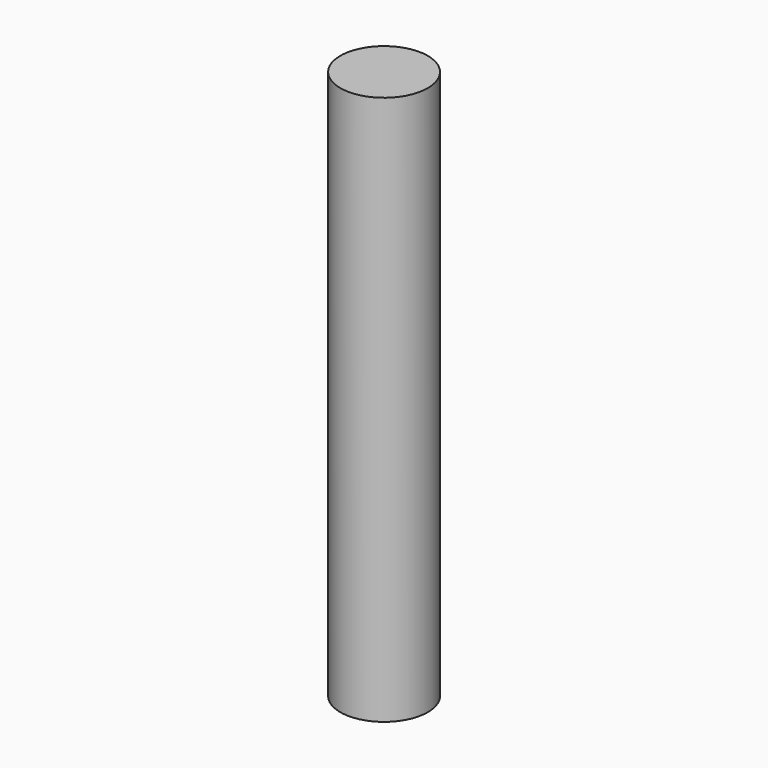
from build123d import *

# Parameters (mm, degrees)
CYLINDER_R     = 1.1938
CYLINDER_DEPTH = 15


with BuildPart() as part:
    # Cylinder → Cylinder (new body)
    with BuildSketch(Plane.XY.offset(-2.5)):
        Circle(CYLINDER_R)
    extrude(amount=CYLINDER_DEPTH)


solid = part.part
